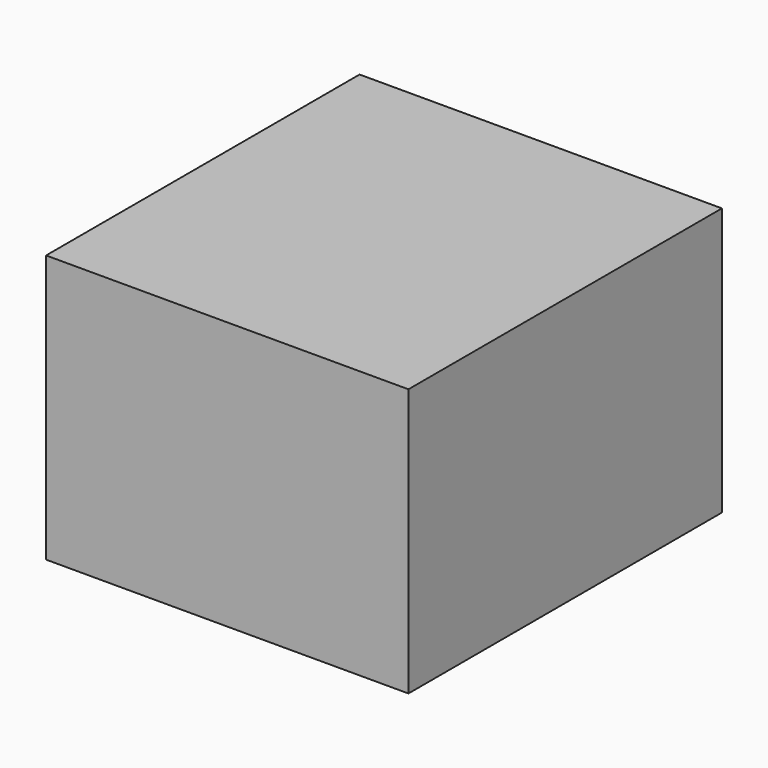
from build123d import *

# Parameters (mm, degrees)
F0_W      = 137.336552
F0_H      = 68.460882
F1_DEPTH  = 63.5
F1_FACE_W = 127
F1_FACE_H = 137.336552
F2_DEPTH  = 25.4


with BuildPart() as f1:
    # F0 (on Right) → F1 (new body, symmetric)
    with BuildSketch(Plane.YZ):
        Rectangle(F0_W, F0_H)
    extrude(amount=F1_DEPTH, both=True)

    # F1_face (on face) → F2 (join)
    with BuildSketch(Plane(origin=(0, 0, -34.230441), x_dir=(1, 0, 0), z_dir=(0, 0, -1))):
        Rectangle(F1_FACE_W, F1_FACE_H)
    extrude(amount=F2_DEPTH)


solid = f1.part
